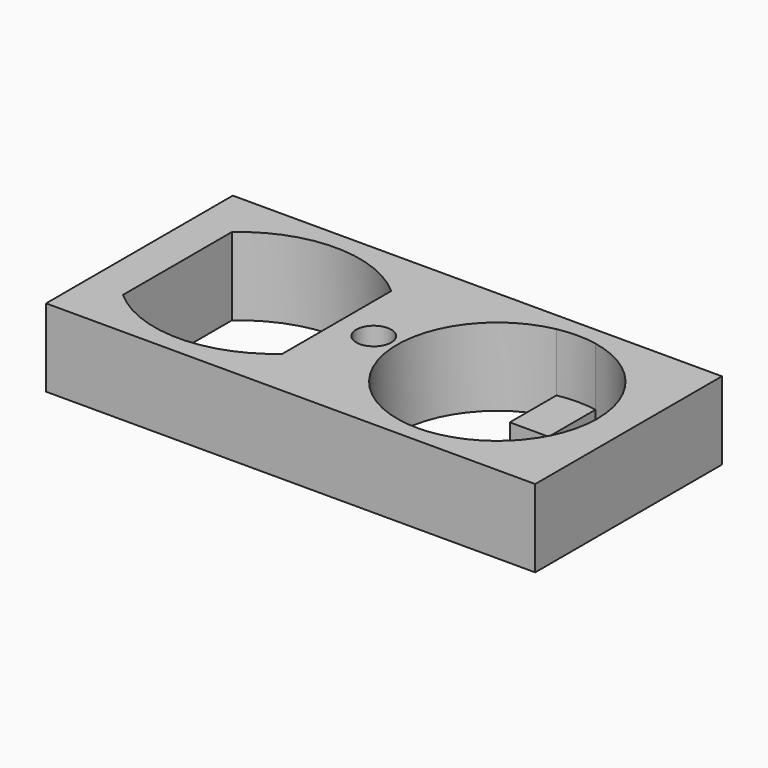
from build123d import *

# Parameters (mm, degrees)
F0_W     = 25.15
F0_H     = 12
F0_R     = 0.9
F1_DEPTH = 4
F2_DEPTH = 1


with BuildPart() as f1:
    # F0 (on Top) → F1 (new body)
    with BuildSketch(Plane.XY):
        with Locations((-0.683474, 8.40328)):
            Rectangle(F0_W, F0_H)
        with BuildLine():
            Line((-11.308474, 8.40328), (-11.308474, 11.90328))
            ThreePointArc((-11.308474, 11.90328), (-7.208474, 13.45328), (-3.108474, 11.90328))
            Line((-3.108474, 11.90328), (-3.108474, 8.40328))
            Line((-3.108474, 8.40328), (-3.108474, 4.90328))
            ThreePointArc((-3.108474, 4.90328), (-7.208474, 3.35328), (-11.308474, 4.90328))
            Line((-11.308474, 4.90328), (-11.308474, 8.40328))
        make_face(mode=Mode.SUBTRACT)
        with Locations((-1.208474, 8.40328)):
            Circle(F0_R, mode=Mode.SUBTRACT)
        with BuildLine():
            ThreePointArc((6.141526, 3.3513), (5.141526, 3.25328), (4.141526, 3.3513))
            ThreePointArc((4.141526, 3.3513), (-0.008474, 8.40328), (4.141526, 13.45526))
            ThreePointArc((4.141526, 13.45526), (5.141526, 13.55328), (6.141526, 13.45526))
            ThreePointArc((6.141526, 13.45526), (9.121004, 11.672263), (10.291526, 8.40328))
            ThreePointArc((10.291526, 8.40328), (9.121004, 5.134297), (6.141526, 3.3513))
        make_face(mode=Mode.SUBTRACT)
    extrude(amount=F1_DEPTH)

    # F0 (on Top) → F2 (join)
    with BuildSketch(Plane.XY):
        with BuildLine():
            Line((4.141526, 6.3513), (4.141526, 3.3513))
            ThreePointArc((4.141526, 3.3513), (5.141526, 3.25328), (6.141526, 3.3513))
            Line((6.141526, 3.3513), (6.141526, 6.3513))
            Line((6.141526, 6.3513), (4.141526, 6.3513))
        make_face()
        with BuildLine():
            ThreePointArc((6.141526, 13.45526), (5.141526, 13.55328), (4.141526, 13.45526))
            Line((4.141526, 13.45526), (4.141526, 10.45526))
            Line((4.141526, 10.45526), (6.141526, 10.45526))
            Line((6.141526, 10.45526), (6.141526, 13.45526))
        make_face()
        with Locations((-1.208474, 8.40328)):
            Circle(F0_R)
    extrude(amount=F2_DEPTH)


solid = f1.part
